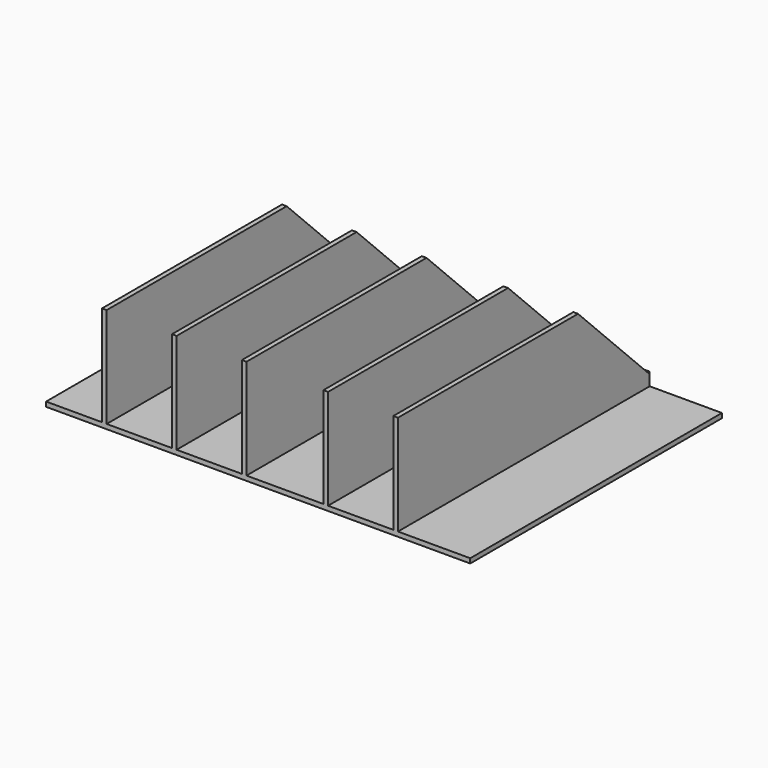
from build123d import *

# Parameters (mm, degrees)
BOX028_W          = 41.4
BOX028_H          = 10
BOX028_DEPTH      = 11
BOX028_ROLL_ANGLE = 45
BOX037_W          = 0.4
BOX037_H          = 27
BOX037_DEPTH      = 9
BOX036_W          = 0.4
BOX036_H          = 27
BOX036_DEPTH      = 9
BOX035_W          = 0.4
BOX035_H          = 27
BOX035_DEPTH      = 9
BOX034_W          = 0.4
BOX034_H          = 27
BOX034_DEPTH      = 9
BOX038_W          = 0.4
BOX038_H          = 27
BOX038_DEPTH      = 9
BOX033_W          = 36.4
BOX033_H          = 27
BOX033_DEPTH      = 0.4


with BuildPart() as rear_panel_chamfer:
    # Box028 → Box028 (new body)
    with BuildSketch(Plane.XY):
        with Locations((20.7, 5)):
            Rectangle(BOX028_W, BOX028_H)
    extrude(amount=BOX028_DEPTH)


with BuildPart() as rear_panel_chamfer_1:
    # Box028 roll: moved
    add(rear_panel_chamfer.part.rotate(Axis((0, 0, 0), (1, 0, 0)), BOX028_ROLL_ANGLE))


with BuildPart() as rear_panel_chamfer_2:
    # Box028 placement: moved
    add(rear_panel_chamfer_1.part.moved(Location((-21.6, 27, 12.81))))


with BuildPart() as support_y4_for_rear_panel_angled:
    # Box037 → Box037 (new body)
    with BuildSketch(Plane(origin=(-2.2, 0.1, 11.4), x_dir=(1, 0, 0), z_dir=(0, 0, 1))):
        with Locations((0.2, 13.5)):
            Rectangle(BOX037_W, BOX037_H)
    extrude(amount=BOX037_DEPTH)


with BuildPart() as support_y3_for_rear_panel_angled:
    # Box036 → Box036 (new body)
    with BuildSketch(Plane(origin=(4.8, 0.1, 11.4), x_dir=(1, 0, 0), z_dir=(0, 0, 1))):
        with Locations((0.2, 13.5)):
            Rectangle(BOX036_W, BOX036_H)
    extrude(amount=BOX036_DEPTH)


with BuildPart() as support_y2_for_rear_panel_angled:
    # Box035 → Box035 (new body)
    with BuildSketch(Plane(origin=(-8.2, 0.1, 11.4), x_dir=(1, 0, 0), z_dir=(0, 0, 1))):
        with Locations((0.2, 13.5)):
            Rectangle(BOX035_W, BOX035_H)
    extrude(amount=BOX035_DEPTH)


with BuildPart() as support_y1_for_rear_panel_angled:
    # Box034 → Box034 (new body)
    with BuildSketch(Plane(origin=(-14.2, 0.1, 11.4), x_dir=(1, 0, 0), z_dir=(0, 0, 1))):
        with Locations((0.2, 13.5)):
            Rectangle(BOX034_W, BOX034_H)
    extrude(amount=BOX034_DEPTH)


with BuildPart() as support_y5_for_rear_panel_angled:
    # Box038 → Box038 (new body)
    with BuildSketch(Plane(origin=(10.8, 0.1, 11.4), x_dir=(1, 0, 0), z_dir=(0, 0, 1))):
        with Locations((0.2, 13.5)):
            Rectangle(BOX038_W, BOX038_H)
    extrude(amount=BOX038_DEPTH)


with BuildPart() as supports_for_rear_panel_angled_chamfered:
    # Box033 → Box033 (new body)
    with BuildSketch(Plane(origin=(-19, 0.1, 11.4), x_dir=(1, 0, 0), z_dir=(0, 0, 1))):
        with Locations((18.2, 13.5)):
            Rectangle(BOX033_W, BOX033_H)
    extrude(amount=BOX033_DEPTH)

    # Fusion005: union support Y4 for rear panel angled, support Y3 for rear panel angled, support Y2 for rear panel angled, support Y1 for rear panel angled, support Y5 for rear panel angled
    add(support_y4_for_rear_panel_angled.part)
    add(support_y3_for_rear_panel_angled.part)
    add(support_y2_for_rear_panel_angled.part)
    add(support_y1_for_rear_panel_angled.part)
    add(support_y5_for_rear_panel_angled.part)

    # Cut006: cut Rear panel chamfer
    add(rear_panel_chamfer_2.part, mode=Mode.SUBTRACT)


solid = supports_for_rear_panel_angled_chamfered.part
